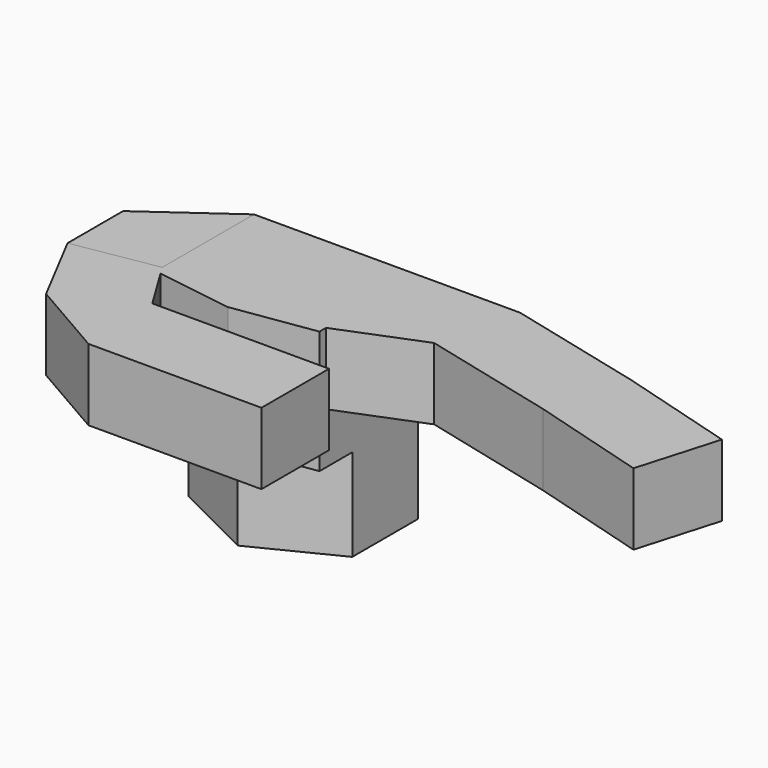
from build123d import *

# Parameters (mm, degrees)
F1_DEPTH  = 11.25
F3_DEPTH  = 15
F5_DEPTH  = 8.75
F7_DEPTH  = 8.75
F9_DEPTH  = 8.75
F11_DEPTH = 8.75
F13_DEPTH = 8.75


with BuildPart() as f1:
    # F0 (on Top) → F1 (new body)
    with BuildSketch(Plane.XY):
        Polygon((-83.697603792, 30.7361355424), (-93.697603792, 30.7361355424), (-93.697603792, 15.7361355424), (-83.697603792, 20.7361355424), align=None)
        Polygon((-93.697603792, 30.7361355424), (-103.697603792, 30.7361355424), (-103.697603792, 20.7361355424), (-93.697603792, 15.7361355424), align=None)
    extrude(amount=F1_DEPTH)

    # F2 (on face) → F3 (join)
    with BuildSketch(Plane.XY.offset(11.25)):
        Polygon((-93.697603792, 15.7361355424), (-103.697603792, 20.7361355424), (-103.697603792, 15.7361355424), (-93.697603792, 14.2361355424), align=None)
        Polygon((-93.697603792, 30.7361355424), (-103.697603792, 30.7361355424), (-103.697603792, 20.7361355424), (-93.697603792, 15.7361355424), align=None)
        Polygon((-83.697603792, 20.7361355424), (-93.697603792, 15.7361355424), (-93.697603792, 14.2361355424), (-83.697603792, 15.7361355424), align=None)
        Polygon((-83.697603792, 30.7361355424), (-93.697603792, 30.7361355424), (-93.697603792, 15.7361355424), (-83.697603792, 20.7361355424), align=None)
    extrude(amount=F3_DEPTH)

    # F4 (on face) → F5 (join)
    with BuildSketch(Plane.XY.offset(26.25)):
        Polygon((-71.197603792, 30.7361355424), (-83.697603792, 30.7361355424), (-83.697603792, 16.7361355424), (-73.697603792, 20.7361355424), align=None)
    extrude(amount=-F5_DEPTH)

    # F8 (on face) → F9 (join)
    with BuildSketch(Plane.XY.offset(26.25)):
        Polygon((-71.197603792, 30.7361355424), (-73.697603792, 20.7361355424), (-57.0997293118, 16.5866669224), (-54.2201100394, 26.4917621043), align=None)
    extrude(amount=-F9_DEPTH)

    # F10 (on face) → F11 (join)
    with BuildSketch(Plane.XY.offset(26.25)):
        Polygon((-103.697603792, 16.7361355424), (-113.8697295168, 14.9953718484), (-108.9211053768, 5.5361545759), (-99.3160009384, 0), (-78.1948640943, 0), (-78.1948640943, 10.32), (-99.7768600302, 10.32), align=None)
    extrude(amount=-F11_DEPTH)

    # F12 (on face) → F13 (join)
    with BuildSketch(Plane.XY.offset(26.25)):
        Polygon((-54.2201100394, 26.4917621043), (-57.0997293118, 16.5866669224), (-42.6960734807, 12.3992215558), (-39.8164542083, 22.3043167377), align=None)
    extrude(amount=-F13_DEPTH)


with BuildPart() as f7:
    # F6 (on face) → F7 (new body)
    with BuildSketch(Plane.XY.offset(26.25)):
        Polygon((-103.697603792, 16.7361355424), (-103.697603792, 30.7361355424), (-113.8697295168, 23.4712984321), (-113.8697295168, 14.9953718484), align=None)
    extrude(amount=-F7_DEPTH)


solid = Compound([f1.part, f7.part])
